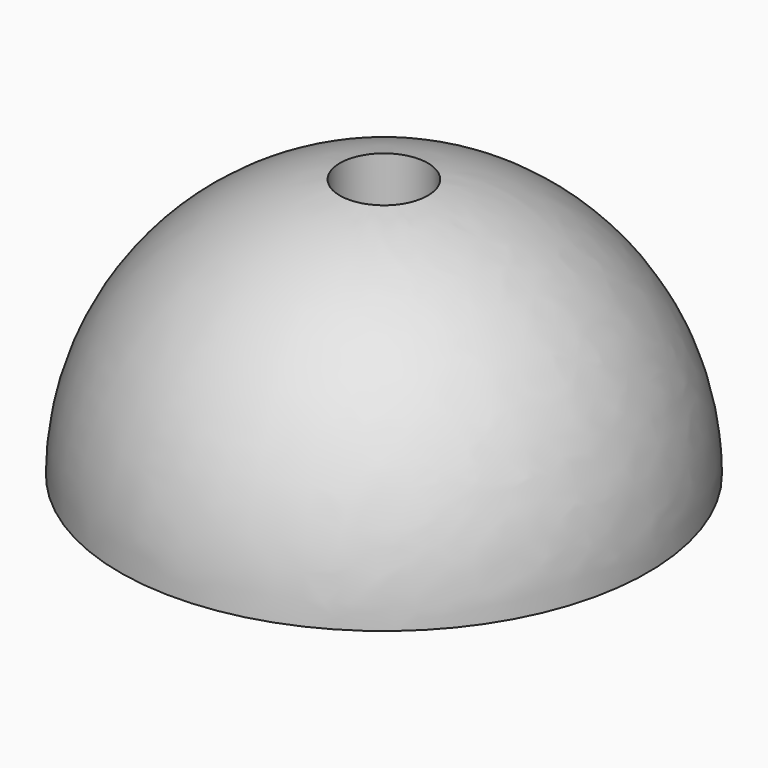
from build123d import *


with BuildPart() as part:
    # Sketch → Revolution (revolve)
    with BuildSketch(Plane.XZ):
        with BuildLine():
            ThreePointArc((-0.5, 2.95804), (-2.291288, 1.936492), (-3, 0))
            Line((-3, 0), (-0.5, 0))
            Line((-0.5, 0), (-0.5, 2.95804))
        make_face()
    revolve(axis=Axis((0, 0, 0), (0, 0, 1)))


solid = part.part
